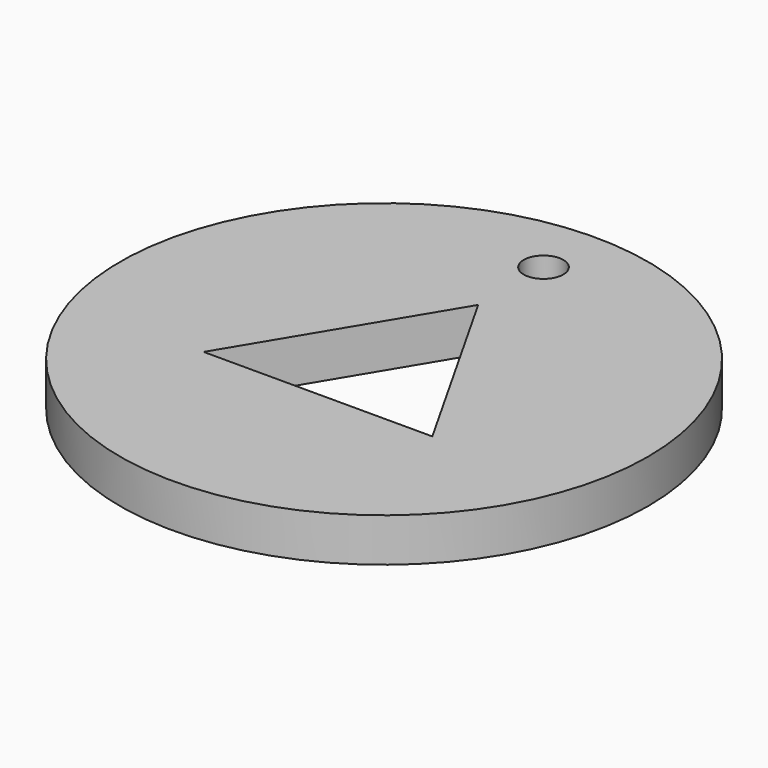
from build123d import *

# Parameters (mm, degrees)
CYLINDER_R      = 20
CYLINDER_DEPTH  = 3.3
SKETCH_R        = 1.5
POCKET_DEPTH    = 3.301
POCKET001_DEPTH = 3.301


with BuildPart() as part:
    # Cylinder → Cylinder (new body)
    with BuildSketch(Plane.XY):
        Circle(CYLINDER_R)
    extrude(amount=CYLINDER_DEPTH)

    # Sketch → Pocket (cut, through all)
    with BuildSketch(Plane.XY.offset(3.3)):
        with Locations((0, 15.1)):
            Circle(SKETCH_R)
    extrude(amount=-POCKET_DEPTH, mode=Mode.SUBTRACT)

    # Sketch001 → Pocket001 (cut, through all)
    with BuildSketch(Plane.XY.offset(3.3)):
        Polygon((0, 8.915402), (-8.923643, -5.938961), (8.405048, -5.938961), align=None)
    extrude(amount=-POCKET001_DEPTH, mode=Mode.SUBTRACT)


solid = part.part
